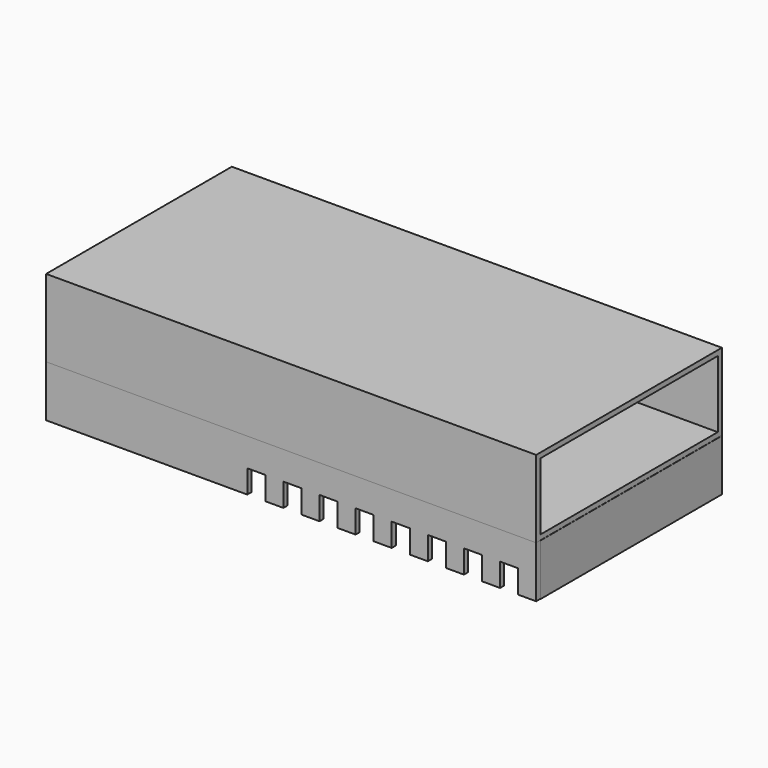
from build123d import *

# Parameters (mm, degrees)
F0_W     = 190
F0_H     = 90
F1_DEPTH = 30
F2_T     = -2
F4_DEPTH = 20
F3_W     = 0.1180022955
F3_H     = 85.8825759888
F3_W_2   = 1.8819977045
F5_DEPTH = 20
F6_W     = 7
F6_H     = 9
F7_DEPTH = 4
F8_W     = 7
F8_H     = 9
F9_DEPTH = 4


with BuildPart() as f1:
    # F0 (on Top) → F1 (new body)
    with BuildSketch(Plane.XY):
        Rectangle(F0_W, F0_H)
    extrude(amount=F1_DEPTH)

    # F2
    f2_openings = [f1.faces().sort_by_distance(p)[0] for p in [
        (95, 0, 15),
    ]]
    offset(amount=F2_T, openings=f2_openings)

    # F3 (on Top) → F4 (join)
    with BuildSketch(Plane.XY):
        Polygon((95.0710946321, 42.9269237816), (95.0710946321, 44.9269237816), (-94.9289053679, 44.9269237816), (-94.9289053679, 42.9269237816), (-93.0469076633, 42.9269237816), (93.0710946321, 42.9269237816), align=None)
    extrude(amount=-F4_DEPTH)

    # F3 (on Top) → F5 (join)
    with BuildSketch(Plane.XY):
        Polygon((95.0710946321, 42.9269237816), (95.0710946321, 44.9269237816), (-94.9289053679, 44.9269237816), (-94.9289053679, 42.9269237816), (-93.0469076633, 42.9269237816), (93.0710946321, 42.9269237816), align=None)
        Polygon((95.0710946321, -42.9556522071), (95.0710946321, 42.9269237816), (93.0710946321, 42.9269237816), (93.0710946321, -42.9556522071), (94.9564541443, -42.9556522071), align=None)
        with Locations((-94.9879065156, -0.0143642128)):
            Rectangle(F3_W, F3_H)
        with Locations((-93.9879065156, -0.0143642128)):
            Rectangle(F3_W_2, F3_H)
        Polygon((-93.0469076633, -42.9556522071), (-94.9289053679, -42.9556522071), (-95.0469076633, -42.9556522071), (-95.0469076633, -44.9556522071), (94.9533249005, -44.9556522071), (94.9564541443, -42.9556522071), (93.0710946321, -42.9556522071), align=None)
    extrude(amount=-F5_DEPTH)

    # F6 (on face) → F7 (cut)
    with BuildSketch(Plane(origin=(0, 44.9269237816, 0), x_dir=(-1, 0, 0), z_dir=(0, 1, 0))):
        with Locations((13.4289053679, -15.5)):
            Rectangle(F6_W, F6_H)
        with Locations((-0.5710946321, -15.5)):
            Rectangle(F6_W, F6_H)
        with Locations((-14.5710946321, -15.5)):
            Rectangle(F6_W, F6_H)
        with Locations((-28.5710946321, -15.5)):
            Rectangle(F6_W, F6_H)
        with Locations((-42.5710946321, -15.5)):
            Rectangle(F6_W, F6_H)
        with Locations((-56.5710946321, -15.5)):
            Rectangle(F6_W, F6_H)
        with Locations((-70.5710946321, -15.5)):
            Rectangle(F6_W, F6_H)
        with Locations((-84.5710946321, -15.5)):
            Rectangle(F6_W, F6_H)
    extrude(amount=-F7_DEPTH, mode=Mode.SUBTRACT)

    # F8 (on face) → F9 (cut)
    with BuildSketch(Plane.XZ.offset(44.9556522071)):
        with Locations((84.4533249005, -15.5)):
            Rectangle(F8_W, F8_H)
        with Locations((70.4533249005, -15.5)):
            Rectangle(F8_W, F8_H)
        with Locations((56.4533249005, -15.5)):
            Rectangle(F8_W, F8_H)
        with Locations((42.4533249005, -15.5)):
            Rectangle(F8_W, F8_H)
        with Locations((28.4533249005, -15.5)):
            Rectangle(F8_W, F8_H)
        with Locations((14.4533249005, -15.5)):
            Rectangle(F8_W, F8_H)
        with Locations((0.4533249005, -15.5)):
            Rectangle(F8_W, F8_H)
        with Locations((-13.5466750995, -15.5)):
            Rectangle(F8_W, F8_H)
    extrude(amount=-F9_DEPTH, mode=Mode.SUBTRACT)


solid = f1.part
